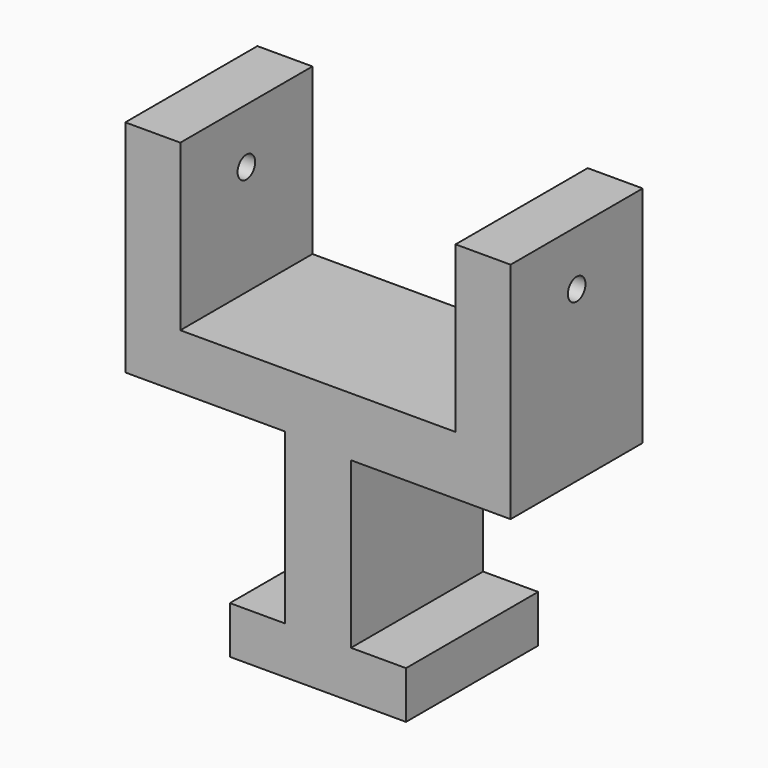
from build123d import *

# Parameters (mm, degrees)
F1_DEPTH = 30
F0_W     = 10
F0_H     = 30
F2_DEPTH = 30
F3_DEPTH = 30
F4_R     = 2
F5_DEPTH = 70.001


with BuildPart() as f1:
    # F0 (on Front) → F1 (new body)
    with BuildSketch(Plane.XZ):
        Polygon((-16, -4.3), (16, -4.3), (16, 4.3), (6, 4.3), (6, 34.3), (35, 34.3), (35, 45), (25, 45), (-25, 45), (-35, 45), (-35, 35), (-6, 35), (-6, 4.3), (-16, 4.3), align=None)
    extrude(amount=F1_DEPTH)

    # F0 (on Front) → F2 (join)
    with BuildSketch(Plane.XZ):
        with Locations((30, 60)):
            Rectangle(F0_W, F0_H)
    extrude(amount=F2_DEPTH)

    # F0 (on Front) → F3 (join)
    with BuildSketch(Plane.XZ):
        with Locations((-30, 60)):
            Rectangle(F0_W, F0_H)
    extrude(amount=F3_DEPTH)

    # F4 (on face) → F5 (cut, through all)
    with BuildSketch(Plane(origin=(-35, 0, 0), x_dir=(0, -1, 0), z_dir=(-1, 0, 0))):
        with Locations((15, 65)):
            Circle(F4_R)
    extrude(amount=-F5_DEPTH, mode=Mode.SUBTRACT)


solid = f1.part
